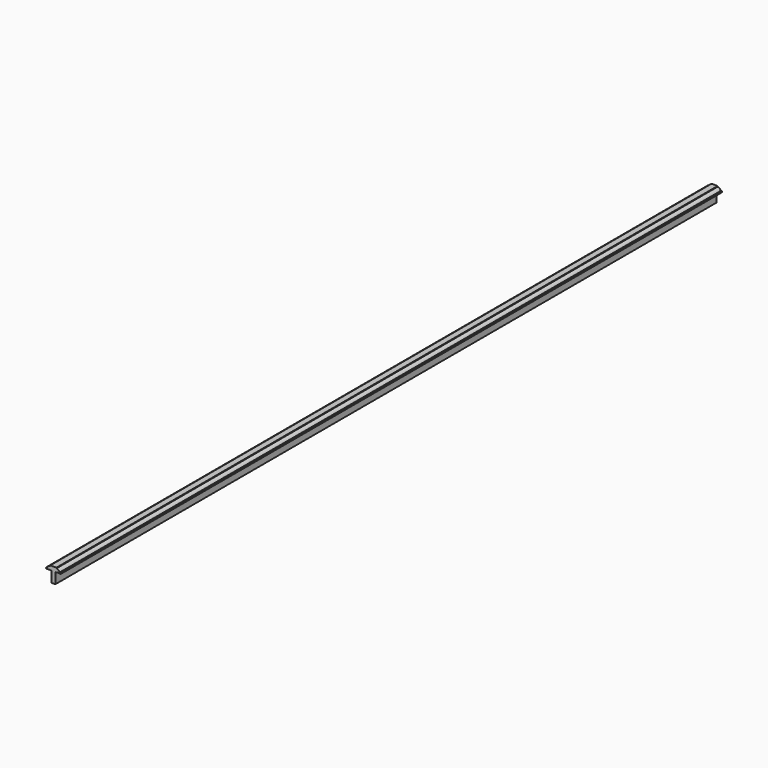
from build123d import *

# Parameters (mm, degrees)
F1_DEPTH = 2438.4


with BuildPart() as f1:
    # F0 (on Front) → F1 (new body)
    with BuildSketch(Plane.XZ):
        with BuildLine():
            Line((-27.38755, 0), (-15.79245, 0))
            Line((-15.79245, 0), (-15.79245, 31.75))
            Line((-15.79245, 31.75), (-9.398, 31.75))
            Line((-9.398, 31.75), (-9.398, 32.258))
            Line((-9.398, 32.258), (0, 31.75))
            Line((0, 31.75), (0, 34.925))
            Line((0, 34.925), (-2.921, 34.925))
            ThreePointArc((-2.921, 34.925), (-6.810822, 39.90292), (-12.7, 42.1894))
            Line((-12.7, 42.1894), (-12.7, 44.1833))
            Line((-12.7, 44.1833), (-30.48, 44.1833))
            Line((-30.48, 44.1833), (-30.48, 42.1894))
            ThreePointArc((-30.48, 42.1894), (-36.369178, 39.90292), (-40.259, 34.925))
            Line((-40.259, 34.925), (-43.18, 34.925))
            Line((-43.18, 34.925), (-43.18, 31.75))
            Line((-43.18, 31.75), (-33.782, 32.258))
            Line((-33.782, 32.258), (-33.782, 31.75))
            Line((-33.782, 31.75), (-27.38755, 31.75))
            Line((-27.38755, 31.75), (-27.38755, 0))
        make_face()
    extrude(amount=F1_DEPTH)


solid = f1.part
